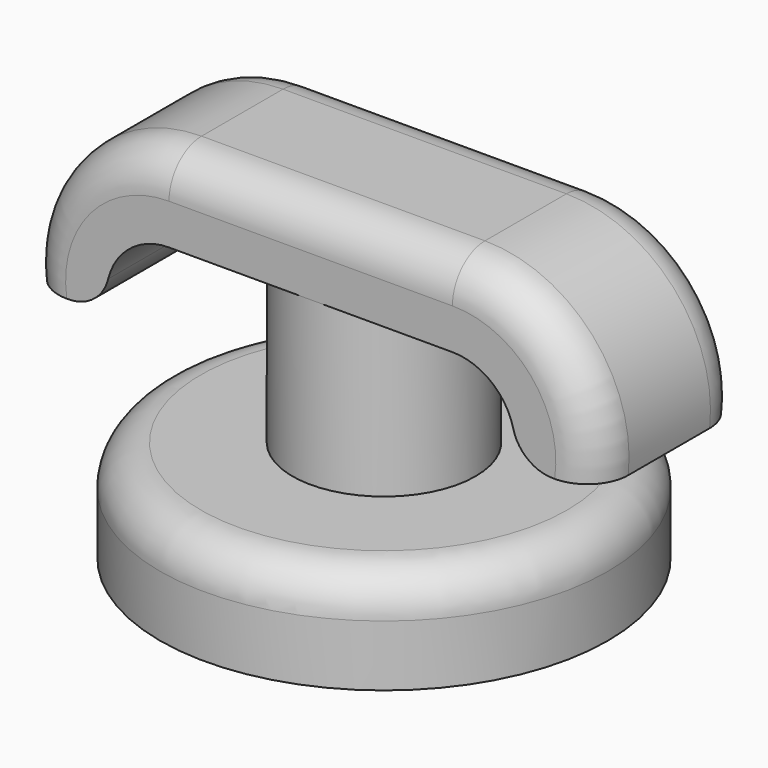
from build123d import *

# Parameters (mm, degrees)
F0_R     = 11
F1_DEPTH = 5
F2_R     = 4.5
F3_DEPTH = 12
F5_DEPTH = 4.5
F6_R     = 2
F8_D     = 5
F8_DEPTH = 14.4
F8_TIP   = 1.5021515476


with BuildPart() as f1:
    # F0 (on Top) → F1 (new body)
    with BuildSketch(Plane.XY):
        Circle(F0_R)
    extrude(amount=F1_DEPTH)

    # F2 (on face) → F3 (join)
    with BuildSketch(Plane.XY.offset(5)):
        Circle(F2_R)
    extrude(amount=F3_DEPTH)

    # F4 (on Front) → F5 (join, symmetric)
    with BuildSketch(Plane.XZ):
        with BuildLine():
            Line((-6.9616497494, 13), (0, 13))
            Line((0, 13), (6.9616497494, 13))
            ThreePointArc((6.9616497494, 13), (9.3963810746, 11.8065304048), (9.9443754998, 9.1509723824))
            Line((9.9443754998, 9.1509723824), (14, 9.1509723824))
            ThreePointArc((14, 9.1509723824), (12.2329306372, 14.6466278196), (6.9616497494, 17))
            Line((6.9616497494, 17), (0, 17))
            Line((0, 17), (-6.9616497494, 17))
            ThreePointArc((-6.9616497494, 17), (-12.2329306372, 14.6466278196), (-14, 9.1509723824))
            Line((-14, 9.1509723824), (-9.9443754998, 9.1509723824))
            ThreePointArc((-9.9443754998, 9.1509723824), (-9.3963810746, 11.8065304048), (-6.9616497494, 13))
        make_face()
    extrude(amount=F5_DEPTH, both=True)

    # F6
    f6_edges = [f1.edges().sort_by_distance(p)[0] for p in [
        (-11, 0, 5),
        (0, -4.5, 17),
        (0, 4.5, 17),
        (-9.944375, 0, 9.150972),
        (9.944375, 0, 9.150972),
    ]]
    fillet(f6_edges, radius=F6_R)

    # F8
    with Locations(Plane(origin=(0, 0, 0), x_dir=(1, 0, 0), z_dir=(0, 0, -1))):
        with Locations((0, 0)):
            Hole(F8_D / 2, depth=F8_DEPTH)
            with Locations((0, 0, -(F8_DEPTH + F8_TIP / 2))):  # 118° drill point
                Cone(0, F8_D / 2, F8_TIP, mode=Mode.SUBTRACT)


solid = f1.part
